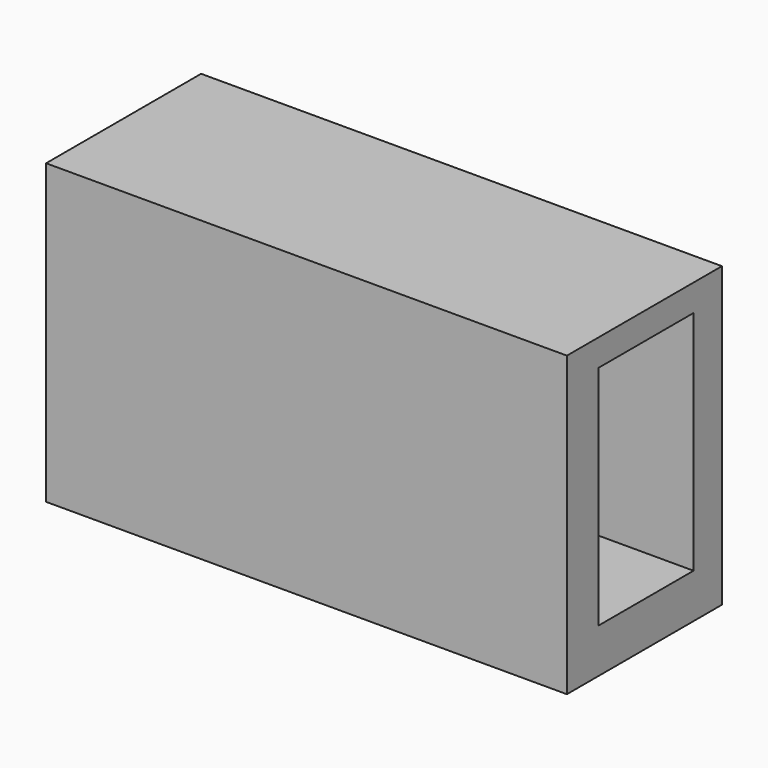
from build123d import *

# Parameters (mm, degrees)
F0_W     = 136.54275
F0_H     = 78.149304
F1_DEPTH = 50.8
F2_W     = 31.127811
F2_H     = 59.488708
F3_DEPTH = 94.488


with BuildPart() as f1:
    # F0 (on Front) → F1 (new body)
    with BuildSketch(Plane.XZ):
        Rectangle(F0_W, F0_H)
    extrude(amount=F1_DEPTH)

    # F2 (on face) → F3 (cut)
    with BuildSketch(Plane.YZ.offset(68.271375)):
        with Locations((-24.863321, 2.305764)):
            Rectangle(F2_W, F2_H)
    extrude(amount=-F3_DEPTH, mode=Mode.SUBTRACT)


solid = f1.part
